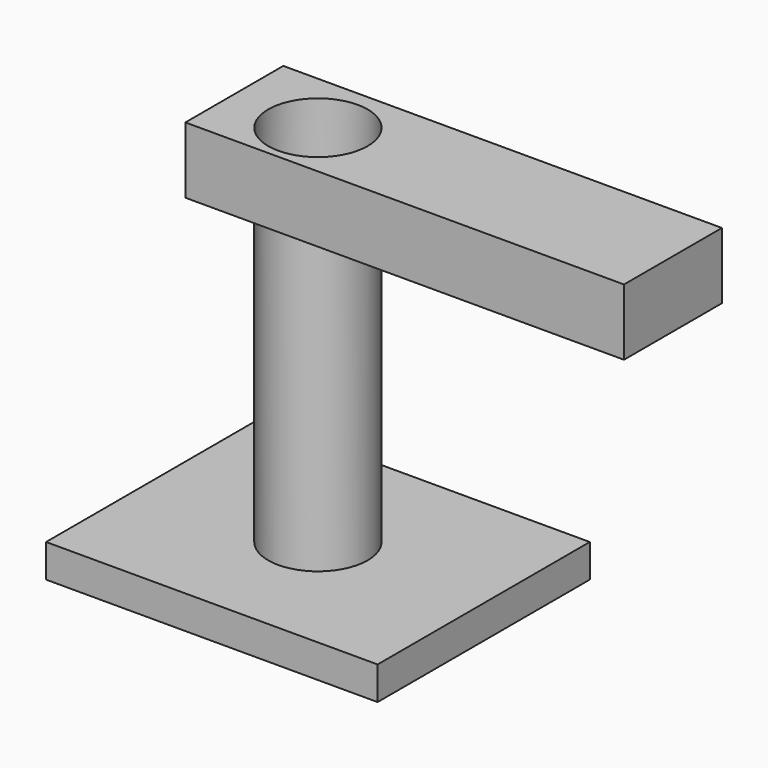
from build123d import *

# Parameters (mm, degrees)
F0_W     = 127
F0_H     = 101.6
F1_DEPTH = 12.7
F2_R     = 19.05
F3_DEPTH = 127
F4_W     = 168.030765
F4_H     = 46.892312
F4_R     = 19.05
F5_DEPTH = 25.4


with BuildPart() as f1:
    # F0 (on Top) → F1 (new body)
    with BuildSketch(Plane.XY):
        Rectangle(F0_W, F0_H)
    extrude(amount=F1_DEPTH)


with BuildPart() as f3:
    # F2 (on Top) → F3 (new body)
    with BuildSketch(Plane.XY):
        Circle(F2_R)
    extrude(amount=F3_DEPTH)


with BuildPart() as f5:
    # F4 (on face) → F5 (new body)
    with BuildSketch(Plane.XY.offset(127)):
        with Locations((50.897689, 1.367692)):
            Rectangle(F4_W, F4_H)
        Circle(F4_R, mode=Mode.SUBTRACT)
    extrude(amount=F5_DEPTH)


solid = Compound([f1.part, f3.part, f5.part])
